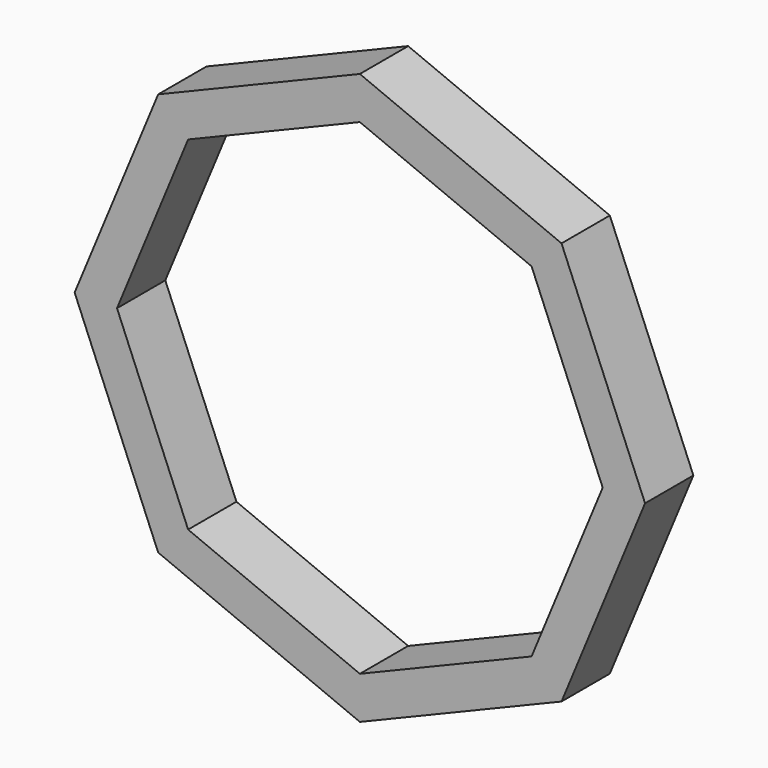
from build123d import *

# Parameters (mm, degrees)
F1_DEPTH = 16.002


with BuildPart() as f1:
    # F0 (on Front) → F1 (new body)
    with BuildSketch(Plane.XZ):
        Polygon((53.447003, 53.447003), (0, 75.585477), (-53.447003, 53.447003), (-75.585477, 0), (-53.447003, -53.447003), (0, -75.585477), (53.447003, -53.447003), (75.585477, 0), align=None)
        Polygon((-45.508866, 45.508866), (0, 64.359255), (45.508866, 45.508866), (64.359255, 0), (45.508866, -45.508866), (0, -64.359255), (-45.508866, -45.508866), (-64.359255, 0), align=None, mode=Mode.SUBTRACT)
    extrude(amount=F1_DEPTH)


solid = f1.part
